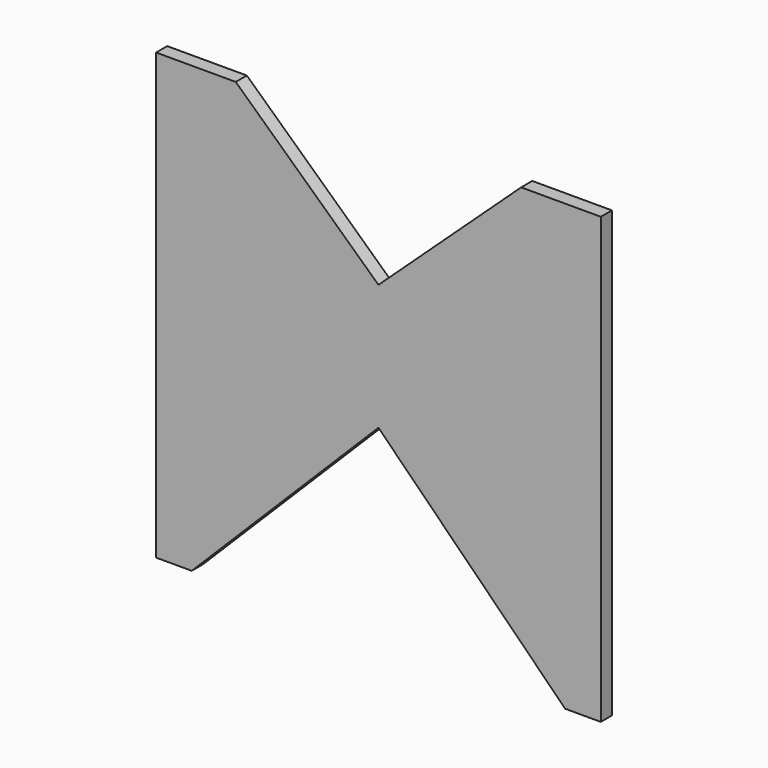
from build123d import *

# Parameters (mm, degrees)
F0_W     = 101.6
F0_H     = 101.6
F1_DEPTH = 3.175
F3_DEPTH = 3.176
F5_DEPTH = 25.4


with BuildPart() as f1:
    # F0 (on Front) → F1 (new body)
    with BuildSketch(Plane.XZ):
        Rectangle(F0_W, F0_H)
    extrude(amount=F1_DEPTH)

    # F2 (on face) → F3 (cut, through all)
    with BuildSketch(Plane.XZ.offset(3.175)):
        Polygon((32.6009, 50.8), (-32.6009, 50.8), (0, 20.584378), align=None)
    extrude(amount=-F3_DEPTH, mode=Mode.SUBTRACT)

    # F4 (on face) → F5 (cut)
    with BuildSketch(Plane.XZ.offset(3.175)):
        Polygon((0, -8.143783), (-42.656217, -50.8), (42.656217, -50.8), align=None)
    extrude(amount=-F5_DEPTH, mode=Mode.SUBTRACT)


solid = f1.part
